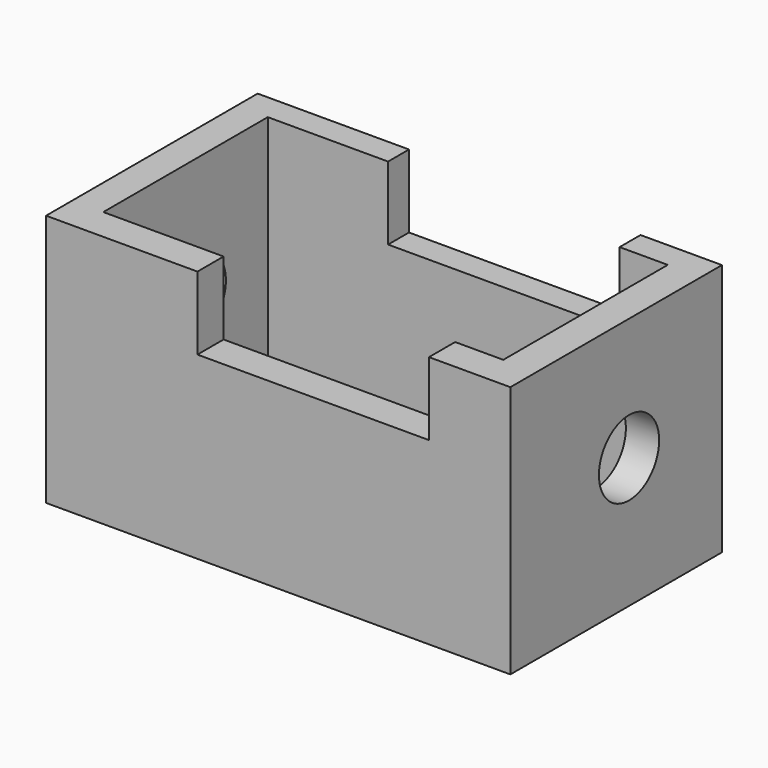
from build123d import *

# Parameters (mm, degrees)
F0_W     = 133.7834484875
F0_H     = 72.8662703186
F1_DEPTH = 76.2
F2_W     = 115.2523923665
F2_H     = 59.2436287552
F3_DEPTH = 72.8672703186
F4_R     = 10.8422221272
F5_DEPTH = 133.7844484875
F6_W     = 66.7222347111
F6_H     = 33.3499126136
F7_DEPTH = 76.201


with BuildPart() as f1:
    # F0 (on Front) → F1 (new body)
    with BuildSketch(Plane.XZ):
        with Locations((-32.7633004636, -15.3782842681)):
            Rectangle(F0_W, F0_H)
    extrude(amount=-F1_DEPTH)

    # F2 (on face) → F3 (cut, through all)
    with BuildSketch(Plane.XY.offset(21.0548508912)):
        with Locations((-33.0736329779, 39.0397785231)):
            Rectangle(F2_W, F2_H)
    extrude(amount=-F3_DEPTH, mode=Mode.SUBTRACT)

    # F4 (on face) → F5 (cut, through all)
    with BuildSketch(Plane.YZ.offset(34.1284237802)):
        with Locations((42.7399463952, -14.2118474469)):
            Circle(F4_R)
    extrude(amount=-F5_DEPTH, mode=Mode.SUBTRACT)

    # F6 (on face) → F7 (cut, through all)
    with BuildSketch(Plane.XZ):
        with Locations((-22.6808311418, 16.6749563068)):
            Rectangle(F6_W, F6_H)
    extrude(amount=-F7_DEPTH, mode=Mode.SUBTRACT)


solid = f1.part
